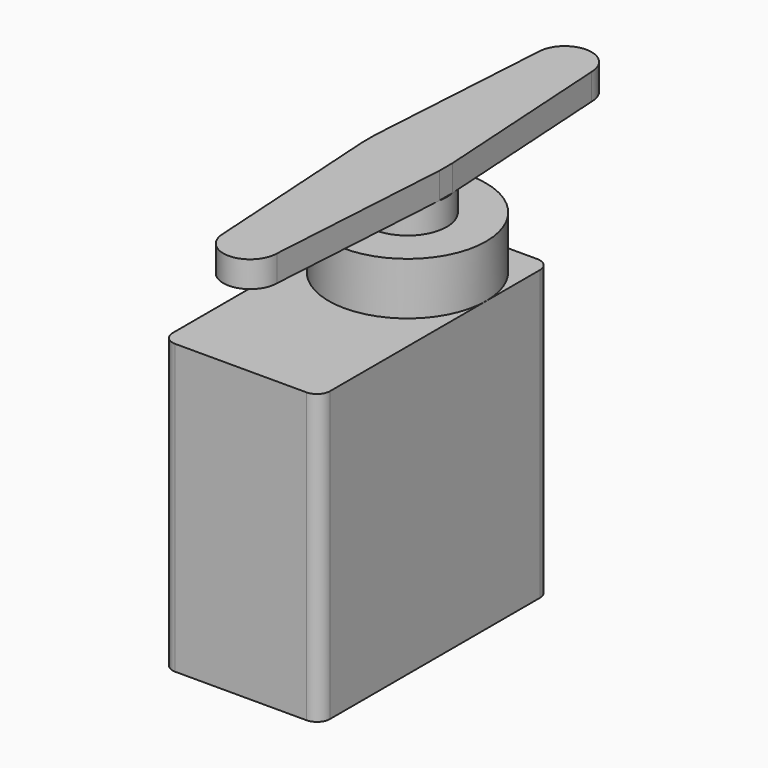
from build123d import *

# Parameters (mm, degrees)
F0_W     = 12
F0_H     = 22
F1_DEPTH = 22
F3_DEPTH = 4
F4_R     = 3
F5_DEPTH = 2
F7_DEPTH = 2
F8_R     = 1


with BuildPart() as f1:
    # F0 (on Top) → F1 (new body)
    with BuildSketch(Plane.XY):
        with Locations((-18.318631, 0.362903)):
            Rectangle(F0_W, F0_H)
    extrude(amount=F1_DEPTH)

    # F2 (on face) → F3 (join)
    with BuildSketch(Plane.XY.offset(22)):
        with BuildLine():
            ThreePointArc((-24.318631, 5.236689), (-18.318631, -0.763311), (-12.318631, 5.236689))
            ThreePointArc((-12.318631, 5.236689), (-18.318631, 11.236689), (-24.318631, 5.236689))
        make_face()
    extrude(amount=F3_DEPTH)

    # F4 (on face) → F5 (join)
    with BuildSketch(Plane.XY.offset(26)):
        with Locations((-18.318631, 5.236689)):
            Circle(F4_R)
    extrude(amount=F5_DEPTH)

    # F6 (on face) → F7 (join)
    with BuildSketch(Plane.XY.offset(28)):
        with BuildLine():
            Line((-18.318631, 20.221412), (-16.273675, 20.221412))
            ThreePointArc((-16.273675, 20.221412), (-18.318631, 22.266367), (-20.363586, 20.221412))
            Line((-20.363586, 20.221412), (-18.318631, 20.221412))
        make_face()
        with BuildLine():
            Line((-18.318631, 20.221412), (-20.363586, 20.221412))
            Line((-20.363586, 20.221412), (-21.253275, 5.859475))
            ThreePointArc((-21.253275, 5.859475), (-20.206969, 7.567822), (-18.318631, 8.236689))
            Line((-18.318631, 8.236689), (-18.318631, 20.221412))
        make_face()
        with BuildLine():
            Line((-15.383986, 5.859475), (-16.273675, 20.221412))
            Line((-16.273675, 20.221412), (-18.318631, 20.221412))
            Line((-18.318631, 20.221412), (-18.318631, 8.236689))
            ThreePointArc((-18.318631, 8.236689), (-16.430293, 7.567822), (-15.383986, 5.859475))
        make_face()
        with BuildLine():
            Line((-15.383986, 4.613903), (-15.383986, 5.859475))
            ThreePointArc((-15.383986, 5.859475), (-16.430293, 7.567822), (-18.318631, 8.236689))
            ThreePointArc((-18.318631, 8.236689), (-20.206969, 7.567822), (-21.253275, 5.859475))
            Line((-21.253275, 5.859475), (-21.253275, 4.613903))
            ThreePointArc((-21.253275, 4.613903), (-18.318631, 2.236689), (-15.383986, 4.613903))
        make_face()
        with BuildLine():
            Line((-16.273675, -9.748033), (-15.383986, 4.613903))
            ThreePointArc((-15.383986, 4.613903), (-18.318631, 2.236689), (-21.253275, 4.613903))
            Line((-21.253275, 4.613903), (-20.363586, -9.748033))
            Line((-20.363586, -9.748033), (-18.318631, -9.748033))
            Line((-18.318631, -9.748033), (-16.273675, -9.748033))
        make_face()
        with BuildLine():
            ThreePointArc((-20.363586, -9.748033), (-18.318631, -11.792988), (-16.273675, -9.748033))
            Line((-16.273675, -9.748033), (-18.318631, -9.748033))
            Line((-18.318631, -9.748033), (-20.363586, -9.748033))
        make_face()
    extrude(amount=F7_DEPTH)

    # F8
    f8_edges = [f1.edges().sort_by_distance(p)[0] for p in [
        (-12.318631, 11.362903, 11),
        (-24.318631, 11.362903, 11),
        (-12.318631, -10.637097, 11),
        (-24.318631, -10.637097, 11),
    ]]
    fillet(f8_edges, radius=F8_R)


solid = f1.part
